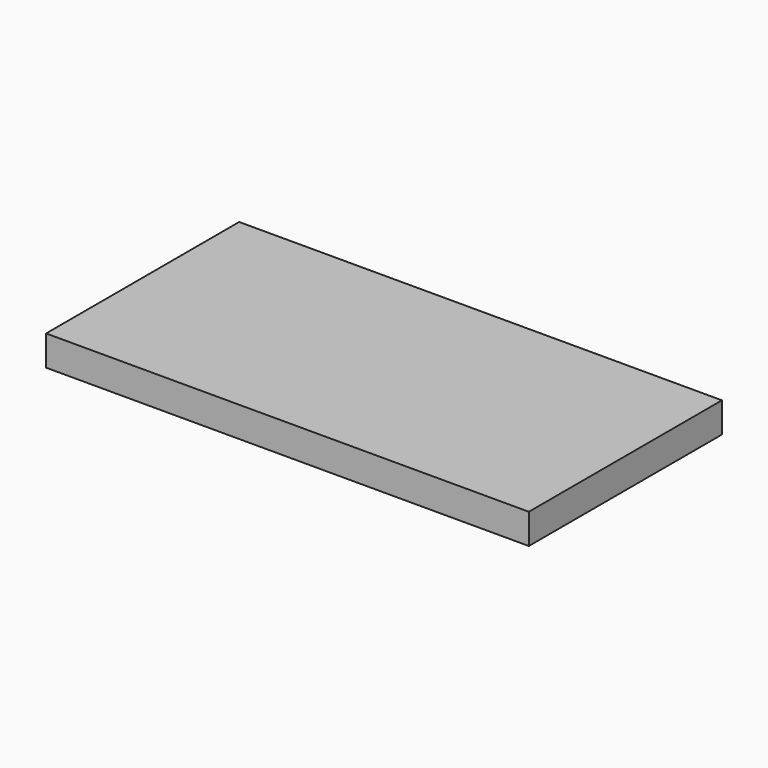
from build123d import *

# Parameters (mm, degrees)
SKETCH_W  = 160
SKETCH_H  = 80
PAD_DEPTH = 10


with BuildPart() as part:
    # Sketch → Pad (new body)
    with BuildSketch(Plane.XY):
        with Locations((-80, 40)):
            Rectangle(SKETCH_W, SKETCH_H)
    extrude(amount=PAD_DEPTH)


solid = part.part
